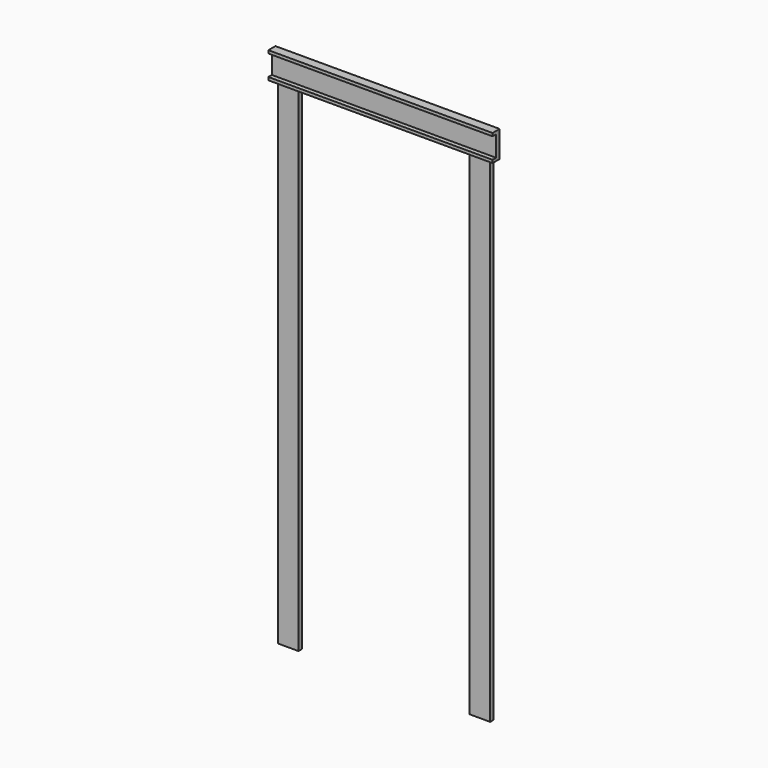
from build123d import *

# Parameters (mm, degrees)
F0_W     = 19.05
F0_H     = 88.9
F1_DEPTH = 965.2
F2_W     = 88.9
F2_H     = 19.05
F3_DEPTH = 2133.6


with BuildPart() as f1:
    # F0 (on Right) → F1 (new body)
    with BuildSketch(Plane.YZ):
        Polygon((0, 12.7), (0, 0), (38.1, 0), (38.1, 12.7), (19.05, 12.7), align=None)
        with Locations((28.575, 57.15)):
            Rectangle(F0_W, F0_H)
        Polygon((19.05, 101.6), (38.1, 101.6), (38.1, 114.3), (0, 114.3), (0, 101.6), align=None)
    extrude(amount=F1_DEPTH)

    # F2 (on face) → F3 (join)
    with BuildSketch(Plane(origin=(0, 0, 0), x_dir=(1, 0, 0), z_dir=(0, 0, -1))):
        with Locations((69.85, -28.575)):
            Rectangle(F2_W, F2_H)
        with Locations((895.35, -28.575)):
            Rectangle(F2_W, F2_H)
    extrude(amount=F3_DEPTH)


solid = f1.part
